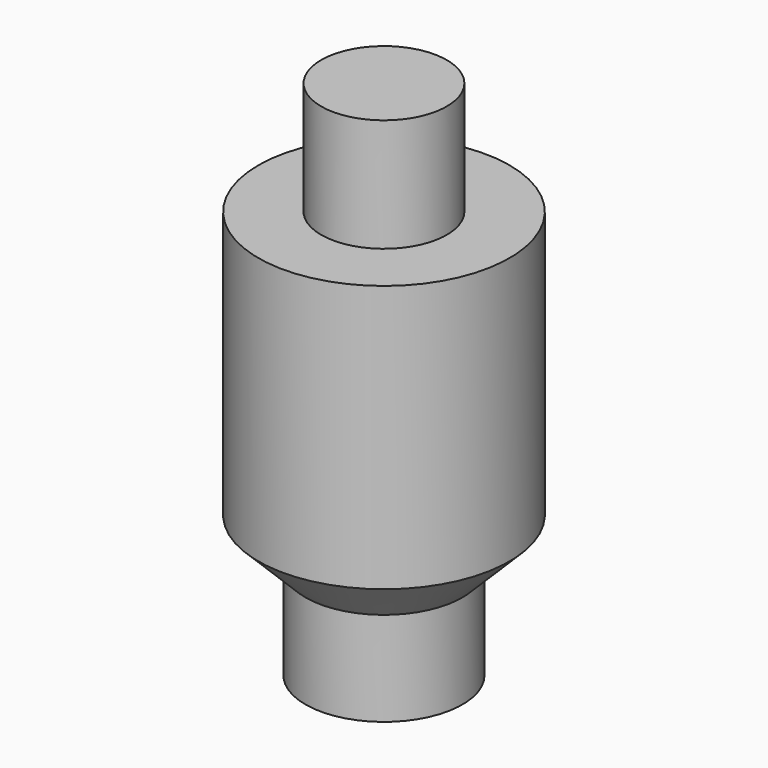
from build123d import *

# Parameters (mm, degrees)
CYLINDER002_R             = 1
CYLINDER002_DEPTH         = 1.8
CYLINDER_R                = 2
CYLINDER_DEPTH            = 5
CHAMFER_SIZE              = 0.75
CYLINDER001_R             = 1.25
CYLINDER001_DEPTH         = 1.5
FUSION001_PLACEMENT_ANGLE = 180


with BuildPart() as cylinder002:
    # Cylinder002 → Cylinder002 (new body)
    with BuildSketch(Plane.XY.offset(-1.8)):
        Circle(CYLINDER002_R)
    extrude(amount=CYLINDER002_DEPTH)


with BuildPart() as chamfer_body:
    # Cylinder → Cylinder (new body)
    with BuildSketch(Plane.XY):
        Circle(CYLINDER_R)
    extrude(amount=CYLINDER_DEPTH)

    # Chamfer
    chamfer_edges = [chamfer_body.edges().sort_by_distance(p)[0] for p in [
        (-2, 0, 5),
    ]]
    chamfer(chamfer_edges, length=CHAMFER_SIZE)


with BuildPart() as spacer_recto:
    # Cylinder001 → Cylinder001 (new body)
    with BuildSketch(Plane.XY.offset(5)):
        Circle(CYLINDER001_R)
    extrude(amount=CYLINDER001_DEPTH)

    # Fusion001: union Cylinder002, Chamfer body
    add(cylinder002.part)
    add(chamfer_body.part)


with BuildPart() as spacer_recto_1:
    # Fusion001 placement: moved
    add(spacer_recto.part.moved(Location((-51, 59, 6.5))).rotate(Axis((-51, 59, 6.5), (0, 1, 0)), FUSION001_PLACEMENT_ANGLE))


solid = spacer_recto_1.part
